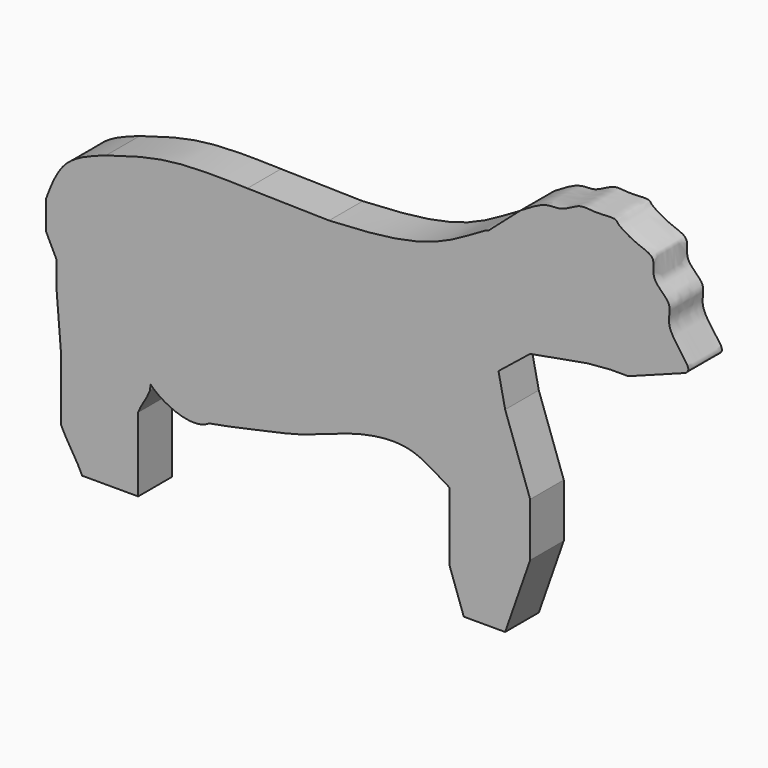
from build123d import *

# Parameters (mm, degrees)
F1_DEPTH = 20
F2_W     = 6
F2_H     = 6
F3_DEPTH = 25


with BuildPart() as f1:
    # F0 (on Front) → F1 (new body)
    with BuildSketch(Plane.XZ):
        with BuildLine():
            add(Edge.make_bspline(
                [(-79.8000022769, 30.4499994963), (-77.3255732356, 37.0363681068), (-72.3122665902, 50.380652777), (-58.3638603742, 55.2725916691), (-51.3000003994, 57.750005275)],
                knots=[0, 0, 0, 0, 0.4935722501, 1, 1, 1, 1], degree=3))
            add(Edge.make_bspline(
                [(-79.8000022769, 30.4499994963), (-79.8000022769, 25.8219769845), (-79.8000022769, 21.1939544727), (-79.8000022769, 16.5659319609)],
                knots=[0, 0, 0, 0, 13.8840675354, 13.8840675354, 13.8840675354, 13.8840675354], degree=3))
            add(Edge.make_bspline(
                [(-79.8000022769, 16.5659319609), (-78.1129176418, 13.1488006252), (-76.4258330067, 9.7316692894), (-74.7387483716, 6.3145379536)],
                knots=[0, 0, 0, 0, 11.4327324025, 11.4327324025, 11.4327324025, 11.4327324025], degree=3))
            add(Edge.make_bspline(
                [(-74.7387483716, 6.3145379536), (-74.7387483716, 1.8891720101), (-74.7387483716, -2.5361939333), (-74.7387483716, -6.9615598768)],
                knots=[0, 0, 0, 0, 13.2760978304, 13.2760978304, 13.2760978304, 13.2760978304], degree=3))
            add(Edge.make_bspline(
                [(-74.7387483716, -6.9615598768), (-74.0988701582, -14.8331653327), (-73.4589919448, -22.7047707886), (-72.8191137314, -30.5763762444)],
                knots=[0, 0, 0, 0, 23.6927108881, 23.6927108881, 23.6927108881, 23.6927108881], degree=3))
            add(Edge.make_bspline(
                [(-72.8191137314, -61.776380986), (-72.8191137314, -51.3763794055), (-72.8191137314, -40.9763778249), (-72.8191137314, -30.5763762444)],
                knots=[0, 0, 0, 0, 31.2000047415, 31.2000047415, 31.2000047415, 31.2000047415], degree=3))
            add(Edge.make_bspline(
                [(-62.619112432, -80.093100667), (-66.0191128651, -72.7824432154), (-69.4191132983, -69.0870384375), (-72.8191137314, -61.776380986)],
                knots=[0, 0, 0, 0, 20.9652628503, 20.9652628503, 20.9652628503, 20.9652628503], degree=3))
            add(Edge.make_bspline(
                [(-35.9794348478, -80.093100667), (-44.8593273759, -80.093100667), (-53.7392199039, -80.093100667), (-62.619112432, -80.093100667)],
                knots=[0, 0, 0, 0, 26.6396775842, 26.6396775842, 26.6396775842, 26.6396775842], degree=3))
            add(Edge.make_bspline(
                [(-35.9794348478, -70.5561637878), (-35.9794348478, -74.9402269721), (-35.9794348478, -75.7090374827), (-35.9794348478, -80.093100667)],
                knots=[0, 0, 0, 0, 9.5369368792, 9.5369368792, 9.5369368792, 9.5369368792], degree=3))
            add(Edge.make_bspline(
                [(-35.9794348478, -70.5561637878), (-35.9794348478, -68.7853942315), (-35.9794348478, -67.0146246751), (-35.9794348478, -65.2438551188)],
                knots=[0, 0, 0, 0, 5.3123086691, 5.3123086691, 5.3123086691, 5.3123086691], degree=3))
            add(Edge.make_bspline(
                [(-35.9794348478, -44.8791794479), (-35.9794348478, -51.6674046715), (-35.9794348478, -58.4556298951), (-35.9794348478, -65.2438551188)],
                knots=[0, 0, 0, 0, 20.3646756709, 20.3646756709, 20.3646756709, 20.3646756709], degree=3))
            add(Edge.make_bspline(
                [(-30.4639991373, -34.0694524348), (-32.3024777075, -38.877778997), (-34.1409562776, -40.0708528856), (-35.9794348478, -44.8791794479)],
                knots=[0, 0, 0, 0, 12.1354945995, 12.1354945995, 12.1354945995, 12.1354945995], degree=3))
            add(Edge.make_bspline(
                [(-30.0665453109, -31.2956437094), (-30.0665453109, -32.9927003257), (-30.4639991373, -32.3723958184), (-30.4639991373, -34.0694524348)],
                knots=[0, 0, 0, 0, 2.8021392523, 2.8021392523, 2.8021392523, 2.8021392523], degree=3))
            add(Edge.make_bspline(
                [(-2.2595758461, -38.5172505659), (-9.6200771127, -43.818919345), (-23.6749724779, -37.8736013329), (-30.0665453109, -31.2956437094)],
                knots=[0, 0, 0, 0, 28.7294127404, 28.7294127404, 28.7294127404, 28.7294127404], degree=3))
            add(Edge.make_bspline(
                [(112.1307405169, -28.2221909259), (105.8817951046, -24.7501724659), (93.9445246715, -15.0327857291), (65.6693160397, -19.5559154849), (44.3976752626, -28.9456919948), (21.6065692925, -33.5118881504), (6.2228508317, -37.1349119471), (-2.2595758461, -38.5172505659)],
                knots=[0, 0, 0, 0, 0.1898170247, 0.4016605517, 0.601369808, 0.7966678874, 1, 1, 1, 1], degree=3))
            Line((112.1307405169, -28.2221909259), (112.1307405169, -60.7847019593))
            Line((112.1307405169, -60.7847019593), (118.9336627722, -80.093100667))
            Line((118.9336627722, -80.093100667), (138.6172473431, -80.093100667))
            Line((138.6172473431, -80.093100667), (150.4966318607, -46.1519733071))
            Line((150.4966318607, -46.1519733071), (150.4966318607, -20.6556878984))
            Line((150.4966318607, -20.6556878984), (138.6172473431, 13.0609832704))
            Line((138.6172473431, 13.0609832704), (135.4389489575, 28.1778269822))
            Line((135.4389489575, 28.1778269822), (150.4966318607, 40.2639172971))
            Line((150.4966318607, 40.2639172971), (177.6495277882, 45.1609827578))
            add(Edge.make_bspline(
                [(188.7300014496, 46.0898764431), (185.5520208677, 45.9128059447), (180.8275083701, 45.3380532563), (177.6495277882, 45.1609827578)],
                knots=[0, 0, 0, 0, 11.1193408096, 11.1193408096, 11.1193408096, 11.1193408096], degree=3))
            add(Edge.make_bspline(
                [(188.7300014496, 46.0898764431), (191.5584305922, 46.0898764431), (194.3868597349, 46.0898764431), (197.2152888775, 46.0898764431)],
                knots=[0, 0, 0, 0, 8.4852874279, 8.4852874279, 8.4852874279, 8.4852874279], degree=3))
            add(Edge.make_bspline(
                [(224.2738649775, 56.229789657), (215.2543396108, 52.8498185857), (206.2348142442, 49.4698475144), (197.2152888775, 46.0898764431)],
                knots=[0.0497350992, 0.0497350992, 0.0497350992, 0.0497350992, 28.9458313848, 28.9458313848, 28.9458313848, 28.9458313848], degree=3))
            add(Edge.make_bspline(
                [(146.0334894754, 98.9233508118), (150.3940280286, 101.6135872187), (157.9225497869, 106.2583124234), (165.5975371709, 104.7325906898), (174.1006372739, 111.0852743921), (180.9905790948, 109.1540917701), (191.4851006845, 110.5326477527), (191.9080991824, 108.005267024), (201.4835317513, 102.3803882418), (210.8501414622, 100.2528226665), (207.2585729408, 90.020248633), (219.3113885554, 83.2050270338), (213.7502656166, 72.9377152539), (226.2577816693, 60.4026103396), (225.7201837949, 57.2466550282), (224.7031647173, 56.4961008047), (224.2738649775, 56.229789657)],
                knots=[0, 0, 0, 0, 0.0951185118, 0.1642232437, 0.2424448882, 0.3133091343, 0.3916524715, 0.4260565471, 0.5104908627, 0.5842306953, 0.6562179328, 0.7407490819, 0.819132886, 0.9217378227, 0.9626513343, 0.9882925364, 0.9882925364, 0.9882925364, 0.9882925364], degree=3))
            add(Edge.make_bspline(
                [(130.4682791233, 85.2789804339), (135.9386344751, 89.9880031745), (140.5631341236, 94.2143280713), (146.0334894754, 98.9233508118)],
                knots=[0, 0, 0, 0, 20.6989037466, 20.6989037466, 20.6989037466, 20.6989037466], degree=3))
            add(Edge.make_bspline(
                [(54.8347085714, 64.9961903691), (73.0704797731, 65.9427215527), (104.0737196953, 67.5519506363), (129.1070540483, 85.7448160837), (130.2985168803, 85.3370761201), (130.4682791233, 85.2789804339)],
                knots=[0, 0, 0, 0, 0.5505198563, 0.9359570812, 1, 1, 1, 1], degree=3))
            add(Edge.make_bspline(
                [(15.9734673798, 65.8447146416), (28.9272144437, 65.5618732174), (41.8809615076, 65.2790317933), (54.8347085714, 64.9961903691)],
                knots=[0, 0, 0, 0, 38.8705037322, 38.8705037322, 38.8705037322, 38.8705037322], degree=3))
            add(Edge.make_bspline(
                [(-51.3000003994, 57.750005275), (-41.8053822057, 60.6764830515), (-21.7261098266, 66.865414843), (2.9602289471, 66.1970426005), (15.9734673798, 65.8447146416)],
                knots=[0, 0, 0, 0, 0.472856686, 1, 1, 1, 1], degree=3))
        make_face()
    extrude(amount=F1_DEPTH)

    # F2 (on face) → F3 (cut)
    with BuildSketch(Plane(origin=(9.1396874403, 0, -24.38945215), x_dir=(0.9364093971, 0, 0.3509094486), z_dir=(0.3509094486, 0, -0.9364093971))):
        with Locations((219.8027890972, 15.7118978727)):
            Rectangle(F2_W, F2_H)
        with Locations((219.8027890972, 4.7817049884)):
            Rectangle(F2_W, F2_H)
    extrude(amount=-F3_DEPTH, mode=Mode.SUBTRACT)


solid = f1.part
